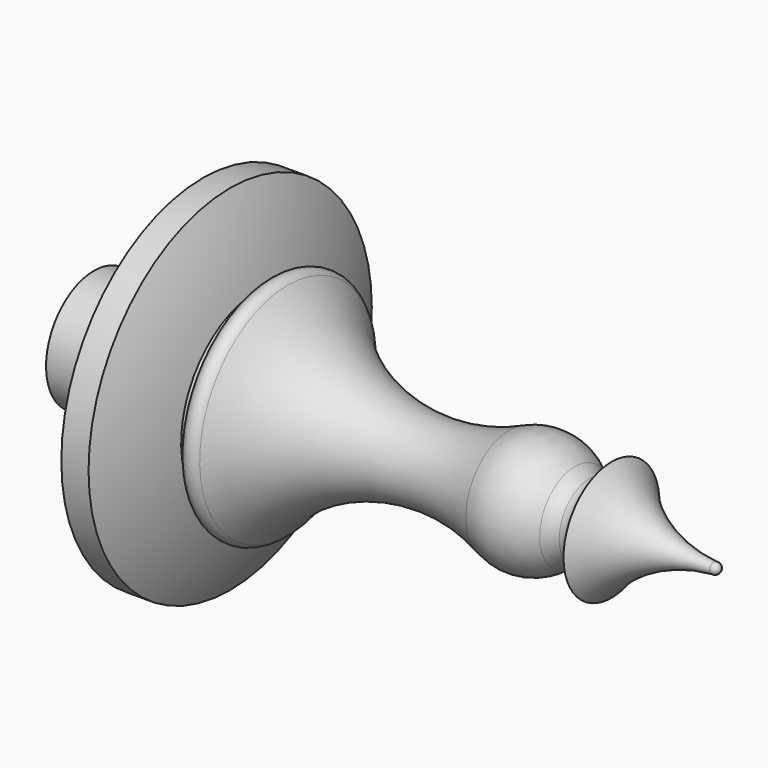
from build123d import *

# Parameters (mm, degrees)
F0_W   = 5
F0_H   = 32.5
F0_W_2 = 2
F0_H_2 = 17.5


with BuildPart() as f1:
    # F0 (on Front) → F1 (revolve)
    with BuildSketch(Plane.XZ):
        with BuildLine():
            Line((15, 11), (0, 11))
            Line((0, 11), (0, 0))
            Line((0, 0), (20, 0))
            Line((20, 0), (20, 32.5))
            ThreePointArc((20, 32.5), (17.194702, 26.228099), (15, 19.717361))
            Line((15, 19.717361), (15, 11))
        make_face()
        with Locations((22.5, 16.25)):
            Rectangle(F0_W, F0_H)
        with BuildLine():
            Line((25, 32.5), (25, 0))
            Line((25, 0), (30, 0))
            Line((30, 0), (30, 17.5))
            ThreePointArc((30, 17.5), (27.913004, 25.137668), (25, 32.5))
        make_face()
        with Locations((31, 8.75)):
            Rectangle(F0_W_2, F0_H_2)
        with BuildLine():
            Line((32, 17.5), (32, 0))
            Line((32, 0), (95, 0))
            Line((95, 0), (95, 11))
            ThreePointArc((95, 11), (93.828427, 8.171573), (91, 7))
            ThreePointArc((91, 7), (89.539407, 7.276203), (88.280523, 8.066667))
            ThreePointArc((88.280523, 8.066667), (82.593074, 10.853198), (76.311867, 10.041865))
            ThreePointArc((76.311867, 10.041865), (54.185838, 8.095848), (35.579633, 20.226686))
            ThreePointArc((35.579633, 20.226686), (33.351643, 20.891992), (32, 19))
            Line((32, 19), (32, 17.5))
        make_face()
        with BuildLine():
            Line((95, 11), (95, 0))
            Line((95, 0), (115, 0))
            ThreePointArc((115, 0), (114.638431, 0.769679), (113.815188, 0.982774))
            ThreePointArc((113.815188, 0.982774), (103.333861, 3.974612), (95, 11))
        make_face()
    revolve(axis=Axis((57.5, 0, 0), (-1, 0, 0)))


solid = f1.part
